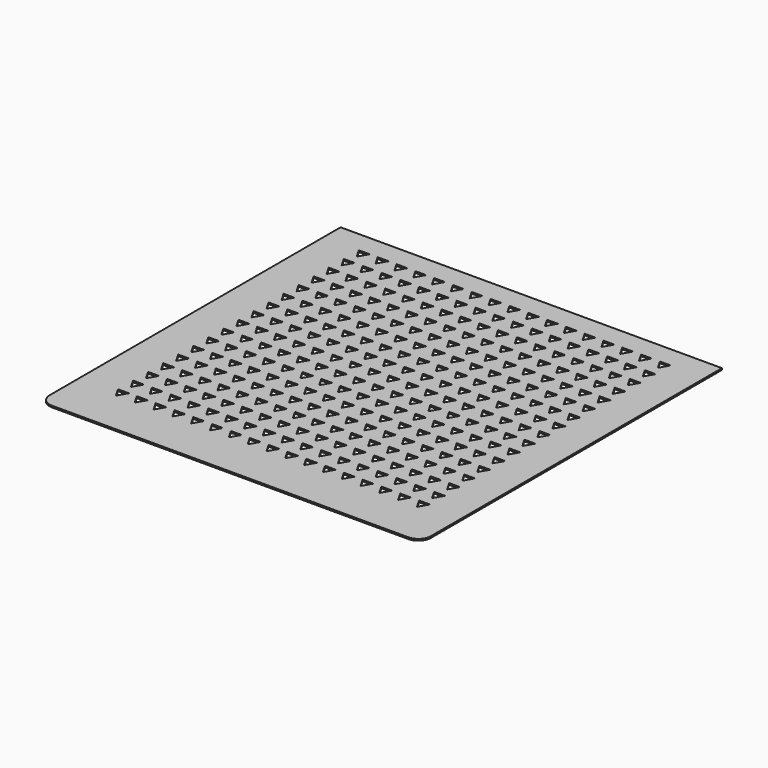
from build123d import *

# Parameters (mm, degrees)
F0_W     = 304
F0_H     = 300
F1_DEPTH = 1.3
F2_R     = 10
F4_DEPTH = 25


with BuildPart() as f1:
    # F0 (on Top) → F1 (new body)
    with BuildSketch(Plane.XY):
        Rectangle(F0_W, F0_H)
    extrude(amount=F1_DEPTH)

    # F2
    f2_edges = [f1.edges().sort_by_distance(p)[0] for p in [
        (152, -150, 0.65),
        (-152, -150, 0.65),
    ]]
    fillet(f2_edges, radius=F2_R)

    # F3 (on face) → F4 (cut)
    with BuildSketch(Plane.XY.offset(1.3)):
        Polygon((105.563281, -54.589773), (109.89196, -47.092282), (101.234603, -47.092282), align=None)
        Polygon((105.563281, -39.589773), (109.89196, -32.092282), (101.234603, -32.092282), align=None)
        Polygon((105.563281, -24.589773), (109.89196, -17.092282), (101.234603, -17.092282), align=None)
        Polygon((105.563281, -9.589773), (109.89196, -2.092282), (101.234603, -2.092282), align=None)
        Polygon((105.563281, 5.410227), (109.89196, 12.907718), (101.234603, 12.907718), align=None)
        Polygon((105.563281, 20.410227), (109.89196, 27.907718), (101.234603, 27.907718), align=None)
        Polygon((105.563281, 35.410227), (109.89196, 42.907718), (101.234603, 42.907718), align=None)
        Polygon((105.563281, 50.410227), (109.89196, 57.907718), (101.234603, 57.907718), align=None)
        Polygon((105.563281, 65.410227), (109.89196, 72.907718), (101.234603, 72.907718), align=None)
        Polygon((105.563281, 80.410227), (109.89196, 87.907718), (101.234603, 87.907718), align=None)
        Polygon((105.563281, 95.410227), (109.89196, 102.907718), (101.234603, 102.907718), align=None)
        Polygon((105.563281, 110.410227), (109.89196, 117.907718), (101.234603, 117.907718), align=None)
        Polygon((105.563281, -99.589773), (109.89196, -92.092282), (101.234603, -92.092282), align=None)
        Polygon((105.563281, -84.589773), (109.89196, -77.092282), (101.234603, -77.092282), align=None)
        Polygon((105.563281, 125.410227), (109.89196, 132.907718), (101.234603, 132.907718), align=None)
        Polygon((105.563281, -114.589773), (109.89196, -107.092282), (101.234603, -107.092282), align=None)
        Polygon((105.563281, -69.589773), (109.89196, -62.092282), (101.234603, -62.092282), align=None)
        Polygon((75.563281, -84.589773), (79.89196, -77.092282), (71.234603, -77.092282), align=None)
        Polygon((90.563281, -69.589773), (94.89196, -62.092282), (86.234603, -62.092282), align=None)
        Polygon((45.563281, -114.589773), (49.89196, -107.092282), (41.234603, -107.092282), align=None)
        Polygon((120.563281, -54.589773), (124.89196, -47.092282), (116.234603, -47.092282), align=None)
        Polygon((60.563281, -99.589773), (64.89196, -92.092282), (56.234603, -92.092282), align=None)
        Polygon((120.563281, -39.589773), (124.89196, -32.092282), (116.234603, -32.092282), align=None)
        Polygon((0.563281, 80.410227), (4.89196, 87.907718), (-3.765397, 87.907718), align=None)
        Polygon((15.563281, 95.410227), (19.89196, 102.907718), (11.234603, 102.907718), align=None)
        Polygon((30.563281, 110.410227), (34.89196, 117.907718), (26.234603, 117.907718), align=None)
        Polygon((45.563281, 125.410227), (49.89196, 132.907718), (41.234603, 132.907718), align=None)
        Polygon((-59.436719, 20.410227), (-55.10804, 27.907718), (-63.765397, 27.907718), align=None)
        Polygon((-44.436719, 35.410227), (-40.10804, 42.907718), (-48.765397, 42.907718), align=None)
        Polygon((-29.436719, 50.410227), (-25.10804, 57.907718), (-33.765397, 57.907718), align=None)
        Polygon((-14.436719, 65.410227), (-10.10804, 72.907718), (-18.765397, 72.907718), align=None)
        Polygon((-104.436719, -24.589773), (-100.10804, -17.092282), (-108.765397, -17.092282), align=None)
        Polygon((-89.436719, -9.589773), (-85.10804, -2.092282), (-93.765397, -2.092282), align=None)
        Polygon((-74.436719, 5.410227), (-70.10804, 12.907718), (-78.765397, 12.907718), align=None)
        Polygon((60.563281, -84.589773), (64.89196, -77.092282), (56.234603, -77.092282), align=None)
        Polygon((45.563281, -99.589773), (49.89196, -92.092282), (41.234603, -92.092282), align=None)
        Polygon((75.563281, -69.589773), (79.89196, -62.092282), (71.234603, -62.092282), align=None)
        Polygon((90.563281, -54.589773), (94.89196, -47.092282), (86.234603, -47.092282), align=None)
        Polygon((0.563281, 95.410227), (4.89196, 102.907718), (-3.765397, 102.907718), align=None)
        Polygon((15.563281, 110.410227), (19.89196, 117.907718), (11.234603, 117.907718), align=None)
        Polygon((30.563281, 125.410227), (34.89196, 132.907718), (26.234603, 132.907718), align=None)
        Polygon((30.563281, -114.589773), (34.89196, -107.092282), (26.234603, -107.092282), align=None)
        Polygon((-59.436719, 35.410227), (-55.10804, 42.907718), (-63.765397, 42.907718), align=None)
        Polygon((-44.436719, 50.410227), (-40.10804, 57.907718), (-48.765397, 57.907718), align=None)
        Polygon((-29.436719, 65.410227), (-25.10804, 72.907718), (-33.765397, 72.907718), align=None)
        Polygon((-14.436719, 80.410227), (-10.10804, 87.907718), (-18.765397, 87.907718), align=None)
        Polygon((-104.436719, -9.589773), (-100.10804, -2.092282), (-108.765397, -2.092282), align=None)
        Polygon((-89.436719, 5.410227), (-85.10804, 12.907718), (-93.765397, 12.907718), align=None)
        Polygon((-74.436719, 20.410227), (-70.10804, 27.907718), (-78.765397, 27.907718), align=None)
        Polygon((120.563281, -24.589773), (124.89196, -17.092282), (116.234603, -17.092282), align=None)
        Polygon((0.563281, 110.410227), (4.89196, 117.907718), (-3.765397, 117.907718), align=None)
        Polygon((15.563281, 125.410227), (19.89196, 132.907718), (11.234603, 132.907718), align=None)
        Polygon((15.563281, -114.589773), (19.89196, -107.092282), (11.234603, -107.092282), align=None)
        Polygon((30.563281, -99.589773), (34.89196, -92.092282), (26.234603, -92.092282), align=None)
        Polygon((-59.436719, 50.410227), (-55.10804, 57.907718), (-63.765397, 57.907718), align=None)
        Polygon((-44.436719, 65.410227), (-40.10804, 72.907718), (-48.765397, 72.907718), align=None)
        Polygon((-29.436719, 80.410227), (-25.10804, 87.907718), (-33.765397, 87.907718), align=None)
        Polygon((-14.436719, 95.410227), (-10.10804, 102.907718), (-18.765397, 102.907718), align=None)
        Polygon((-89.436719, 20.410227), (-85.10804, 27.907718), (-93.765397, 27.907718), align=None)
        Polygon((-104.436719, 5.410227), (-100.10804, 12.907718), (-108.765397, 12.907718), align=None)
        Polygon((-74.436719, 35.410227), (-70.10804, 42.907718), (-78.765397, 42.907718), align=None)
        Polygon((120.563281, -9.589773), (124.89196, -2.092282), (116.234603, -2.092282), align=None)
        Polygon((45.563281, -84.589773), (49.89196, -77.092282), (41.234603, -77.092282), align=None)
        Polygon((60.563281, -69.589773), (64.89196, -62.092282), (56.234603, -62.092282), align=None)
        Polygon((75.563281, -54.589773), (79.89196, -47.092282), (71.234603, -47.092282), align=None)
        Polygon((90.563281, -39.589773), (94.89196, -32.092282), (86.234603, -32.092282), align=None)
        Polygon((-59.436719, 65.410227), (-55.10804, 72.907718), (-63.765397, 72.907718), align=None)
        Polygon((-44.436719, 80.410227), (-40.10804, 87.907718), (-48.765397, 87.907718), align=None)
        Polygon((-29.436719, 95.410227), (-25.10804, 102.907718), (-33.765397, 102.907718), align=None)
        Polygon((-14.436719, 110.410227), (-10.10804, 117.907718), (-18.765397, 117.907718), align=None)
        Polygon((-104.436719, 20.410227), (-100.10804, 27.907718), (-108.765397, 27.907718), align=None)
        Polygon((-89.436719, 35.410227), (-85.10804, 42.907718), (-93.765397, 42.907718), align=None)
        Polygon((-74.436719, 50.410227), (-70.10804, 57.907718), (-78.765397, 57.907718), align=None)
        Polygon((120.563281, 5.410227), (124.89196, 12.907718), (116.234603, 12.907718), align=None)
        Polygon((45.563281, -69.589773), (49.89196, -62.092282), (41.234603, -62.092282), align=None)
        Polygon((60.563281, -54.589773), (64.89196, -47.092282), (56.234603, -47.092282), align=None)
        Polygon((75.563281, -39.589773), (79.89196, -32.092282), (71.234603, -32.092282), align=None)
        Polygon((90.563281, -24.589773), (94.89196, -17.092282), (86.234603, -17.092282), align=None)
        Polygon((0.563281, 125.410227), (4.89196, 132.907718), (-3.765397, 132.907718), align=None)
        Polygon((0.563281, -114.589773), (4.89196, -107.092282), (-3.765397, -107.092282), align=None)
        Polygon((15.563281, -99.589773), (19.89196, -92.092282), (11.234603, -92.092282), align=None)
        Polygon((30.563281, -84.589773), (34.89196, -77.092282), (26.234603, -77.092282), align=None)
        Polygon((-104.436719, 35.410227), (-100.10804, 42.907718), (-108.765397, 42.907718), align=None)
        Polygon((-89.436719, 50.410227), (-85.10804, 57.907718), (-93.765397, 57.907718), align=None)
        Polygon((-74.436719, 65.410227), (-70.10804, 72.907718), (-78.765397, 72.907718), align=None)
        Polygon((120.563281, 20.410227), (124.89196, 27.907718), (116.234603, 27.907718), align=None)
        Polygon((45.563281, -54.589773), (49.89196, -47.092282), (41.234603, -47.092282), align=None)
        Polygon((60.563281, -39.589773), (64.89196, -32.092282), (56.234603, -32.092282), align=None)
        Polygon((75.563281, -24.589773), (79.89196, -17.092282), (71.234603, -17.092282), align=None)
        Polygon((90.563281, -9.589773), (94.89196, -2.092282), (86.234603, -2.092282), align=None)
        Polygon((-14.436719, -114.589773), (-10.10804, -107.092282), (-18.765397, -107.092282), align=None)
        Polygon((0.563281, -99.589773), (4.89196, -92.092282), (-3.765397, -92.092282), align=None)
        Polygon((15.563281, -84.589773), (19.89196, -77.092282), (11.234603, -77.092282), align=None)
        Polygon((30.563281, -69.589773), (34.89196, -62.092282), (26.234603, -62.092282), align=None)
        Polygon((-59.436719, 80.410227), (-55.10804, 87.907718), (-63.765397, 87.907718), align=None)
        Polygon((-44.436719, 95.410227), (-40.10804, 102.907718), (-48.765397, 102.907718), align=None)
        Polygon((-29.436719, 110.410227), (-25.10804, 117.907718), (-33.765397, 117.907718), align=None)
        Polygon((-14.436719, 125.410227), (-10.10804, 132.907718), (-18.765397, 132.907718), align=None)
        Polygon((120.563281, 35.410227), (124.89196, 42.907718), (116.234603, 42.907718), align=None)
        Polygon((60.563281, 125.410227), (64.89196, 132.907718), (56.234603, 132.907718), align=None)
        Polygon((45.563281, -39.589773), (49.89196, -32.092282), (41.234603, -32.092282), align=None)
        Polygon((60.563281, -24.589773), (64.89196, -17.092282), (56.234603, -17.092282), align=None)
        Polygon((75.563281, -9.589773), (79.89196, -2.092282), (71.234603, -2.092282), align=None)
        Polygon((90.563281, 5.410227), (94.89196, 12.907718), (86.234603, 12.907718), align=None)
        Polygon((-14.436719, -99.589773), (-10.10804, -92.092282), (-18.765397, -92.092282), align=None)
        Polygon((0.563281, -84.589773), (4.89196, -77.092282), (-3.765397, -77.092282), align=None)
        Polygon((15.563281, -69.589773), (19.89196, -62.092282), (11.234603, -62.092282), align=None)
        Polygon((30.563281, -54.589773), (34.89196, -47.092282), (26.234603, -47.092282), align=None)
        Polygon((-59.436719, 95.410227), (-55.10804, 102.907718), (-63.765397, 102.907718), align=None)
        Polygon((-44.436719, 110.410227), (-40.10804, 117.907718), (-48.765397, 117.907718), align=None)
        Polygon((-29.436719, 125.410227), (-25.10804, 132.907718), (-33.765397, 132.907718), align=None)
        Polygon((-29.436719, -114.589773), (-25.10804, -107.092282), (-33.765397, -107.092282), align=None)
        Polygon((-104.436719, 50.410227), (-100.10804, 57.907718), (-108.765397, 57.907718), align=None)
        Polygon((-89.436719, 65.410227), (-85.10804, 72.907718), (-93.765397, 72.907718), align=None)
        Polygon((-74.436719, 80.410227), (-70.10804, 87.907718), (-78.765397, 87.907718), align=None)
        Polygon((75.563281, 5.410227), (79.89196, 12.907718), (71.234603, 12.907718), align=None)
        Polygon((90.563281, 20.410227), (94.89196, 27.907718), (86.234603, 27.907718), align=None)
        Polygon((120.563281, 50.410227), (124.89196, 57.907718), (116.234603, 57.907718), align=None)
        Polygon((15.563281, -54.589773), (19.89196, -47.092282), (11.234603, -47.092282), align=None)
        Polygon((30.563281, -39.589773), (34.89196, -32.092282), (26.234603, -32.092282), align=None)
        Polygon((45.563281, -24.589773), (49.89196, -17.092282), (41.234603, -17.092282), align=None)
        Polygon((60.563281, -9.589773), (64.89196, -2.092282), (56.234603, -2.092282), align=None)
        Polygon((-44.436719, -114.589773), (-40.10804, -107.092282), (-48.765397, -107.092282), align=None)
        Polygon((-29.436719, -99.589773), (-25.10804, -92.092282), (-33.765397, -92.092282), align=None)
        Polygon((-14.436719, -84.589773), (-10.10804, -77.092282), (-18.765397, -77.092282), align=None)
        Polygon((-89.436719, 80.410227), (-85.10804, 87.907718), (-93.765397, 87.907718), align=None)
        Polygon((-74.436719, 95.410227), (-70.10804, 102.907718), (-78.765397, 102.907718), align=None)
        Polygon((-59.436719, 110.410227), (-55.10804, 117.907718), (-63.765397, 117.907718), align=None)
        Polygon((-44.436719, 125.410227), (-40.10804, 132.907718), (-48.765397, 132.907718), align=None)
        Polygon((-104.436719, 65.410227), (-100.10804, 72.907718), (-108.765397, 72.907718), align=None)
        Polygon((75.563281, 20.410227), (79.89196, 27.907718), (71.234603, 27.907718), align=None)
        Polygon((90.563281, 35.410227), (94.89196, 42.907718), (86.234603, 42.907718), align=None)
        Polygon((120.563281, 65.410227), (124.89196, 72.907718), (116.234603, 72.907718), align=None)
        Polygon((15.563281, -39.589773), (19.89196, -32.092282), (11.234603, -32.092282), align=None)
        Polygon((30.563281, -24.589773), (34.89196, -17.092282), (26.234603, -17.092282), align=None)
        Polygon((45.563281, -9.589773), (49.89196, -2.092282), (41.234603, -2.092282), align=None)
        Polygon((60.563281, 5.410227), (64.89196, 12.907718), (56.234603, 12.907718), align=None)
        Polygon((-44.436719, -99.589773), (-40.10804, -92.092282), (-48.765397, -92.092282), align=None)
        Polygon((-29.436719, -84.589773), (-25.10804, -77.092282), (-33.765397, -77.092282), align=None)
        Polygon((-14.436719, -69.589773), (-10.10804, -62.092282), (-18.765397, -62.092282), align=None)
        Polygon((-89.436719, 95.410227), (-85.10804, 102.907718), (-93.765397, 102.907718), align=None)
        Polygon((-74.436719, 110.410227), (-70.10804, 117.907718), (-78.765397, 117.907718), align=None)
        Polygon((-59.436719, 125.410227), (-55.10804, 132.907718), (-63.765397, 132.907718), align=None)
        Polygon((-104.436719, 80.410227), (-100.10804, 87.907718), (-108.765397, 87.907718), align=None)
        Polygon((-59.436719, -114.589773), (-55.10804, -107.092282), (-63.765397, -107.092282), align=None)
        Polygon((90.563281, 50.410227), (94.89196, 57.907718), (86.234603, 57.907718), align=None)
        Polygon((75.563281, 35.410227), (79.89196, 42.907718), (71.234603, 42.907718), align=None)
        Polygon((120.563281, 80.410227), (124.89196, 87.907718), (116.234603, 87.907718), align=None)
        Polygon((15.563281, -24.589773), (19.89196, -17.092282), (11.234603, -17.092282), align=None)
        Polygon((45.563281, 5.410227), (49.89196, 12.907718), (41.234603, 12.907718), align=None)
        Polygon((30.563281, -9.589773), (34.89196, -2.092282), (26.234603, -2.092282), align=None)
        Polygon((60.563281, 20.410227), (64.89196, 27.907718), (56.234603, 27.907718), align=None)
        Polygon((-44.436719, -84.589773), (-40.10804, -77.092282), (-48.765397, -77.092282), align=None)
        Polygon((-29.436719, -69.589773), (-25.10804, -62.092282), (-33.765397, -62.092282), align=None)
        Polygon((-14.436719, -54.589773), (-10.10804, -47.092282), (-18.765397, -47.092282), align=None)
        Polygon((-89.436719, 110.410227), (-85.10804, 117.907718), (-93.765397, 117.907718), align=None)
        Polygon((-74.436719, 125.410227), (-70.10804, 132.907718), (-78.765397, 132.907718), align=None)
        Polygon((-74.436719, -114.589773), (-70.10804, -107.092282), (-78.765397, -107.092282), align=None)
        Polygon((-59.436719, -99.589773), (-55.10804, -92.092282), (-63.765397, -92.092282), align=None)
        Polygon((-104.436719, 95.410227), (-100.10804, 102.907718), (-108.765397, 102.907718), align=None)
        Polygon((75.563281, 50.410227), (79.89196, 57.907718), (71.234603, 57.907718), align=None)
        Polygon((90.563281, 65.410227), (94.89196, 72.907718), (86.234603, 72.907718), align=None)
        Polygon((120.563281, 95.410227), (124.89196, 102.907718), (116.234603, 102.907718), align=None)
        Polygon((15.563281, -9.589773), (19.89196, -2.092282), (11.234603, -2.092282), align=None)
        Polygon((30.563281, 5.410227), (34.89196, 12.907718), (26.234603, 12.907718), align=None)
        Polygon((45.563281, 20.410227), (49.89196, 27.907718), (41.234603, 27.907718), align=None)
        Polygon((60.563281, 35.410227), (64.89196, 42.907718), (56.234603, 42.907718), align=None)
        Polygon((-44.436719, -69.589773), (-40.10804, -62.092282), (-48.765397, -62.092282), align=None)
        Polygon((-29.436719, -54.589773), (-25.10804, -47.092282), (-33.765397, -47.092282), align=None)
        Polygon((-14.436719, -39.589773), (-10.10804, -32.092282), (-18.765397, -32.092282), align=None)
        Polygon((-89.436719, 125.410227), (-85.10804, 132.907718), (-93.765397, 132.907718), align=None)
        Polygon((-89.436719, -114.589773), (-85.10804, -107.092282), (-93.765397, -107.092282), align=None)
        Polygon((-74.436719, -99.589773), (-70.10804, -92.092282), (-78.765397, -92.092282), align=None)
        Polygon((-59.436719, -84.589773), (-55.10804, -77.092282), (-63.765397, -77.092282), align=None)
        Polygon((-104.436719, 110.410227), (-100.10804, 117.907718), (-108.765397, 117.907718), align=None)
        Polygon((75.563281, 65.410227), (79.89196, 72.907718), (71.234603, 72.907718), align=None)
        Polygon((90.563281, 80.410227), (94.89196, 87.907718), (86.234603, 87.907718), align=None)
        Polygon((120.563281, 110.410227), (124.89196, 117.907718), (116.234603, 117.907718), align=None)
        Polygon((45.563281, 35.410227), (49.89196, 42.907718), (41.234603, 42.907718), align=None)
        Polygon((30.563281, 20.410227), (34.89196, 27.907718), (26.234603, 27.907718), align=None)
        Polygon((15.563281, 5.410227), (19.89196, 12.907718), (11.234603, 12.907718), align=None)
        Polygon((60.563281, 50.410227), (64.89196, 57.907718), (56.234603, 57.907718), align=None)
        Polygon((-44.436719, -54.589773), (-40.10804, -47.092282), (-48.765397, -47.092282), align=None)
        Polygon((-14.436719, -24.589773), (-10.10804, -17.092282), (-18.765397, -17.092282), align=None)
        Polygon((-29.436719, -39.589773), (-25.10804, -32.092282), (-33.765397, -32.092282), align=None)
        Polygon((-104.436719, -114.589773), (-100.10804, -107.092282), (-108.765397, -107.092282), align=None)
        Polygon((-89.436719, -99.589773), (-85.10804, -92.092282), (-93.765397, -92.092282), align=None)
        Polygon((-74.436719, -84.589773), (-70.10804, -77.092282), (-78.765397, -77.092282), align=None)
        Polygon((-59.436719, -69.589773), (-55.10804, -62.092282), (-63.765397, -62.092282), align=None)
        Polygon((-104.436719, 125.410227), (-100.10804, 132.907718), (-108.765397, 132.907718), align=None)
        Polygon((120.563281, -114.589773), (124.89196, -107.092282), (116.234603, -107.092282), align=None)
        Polygon((75.563281, 80.410227), (79.89196, 87.907718), (71.234603, 87.907718), align=None)
        Polygon((90.563281, 95.410227), (94.89196, 102.907718), (86.234603, 102.907718), align=None)
        Polygon((120.563281, 125.410227), (124.89196, 132.907718), (116.234603, 132.907718), align=None)
        Polygon((15.563281, 20.410227), (19.89196, 27.907718), (11.234603, 27.907718), align=None)
        Polygon((45.563281, 50.410227), (49.89196, 57.907718), (41.234603, 57.907718), align=None)
        Polygon((30.563281, 35.410227), (34.89196, 42.907718), (26.234603, 42.907718), align=None)
        Polygon((60.563281, 65.410227), (64.89196, 72.907718), (56.234603, 72.907718), align=None)
        Polygon((-44.436719, -39.589773), (-40.10804, -32.092282), (-48.765397, -32.092282), align=None)
        Polygon((-29.436719, -24.589773), (-25.10804, -17.092282), (-33.765397, -17.092282), align=None)
        Polygon((-14.436719, -9.589773), (-10.10804, -2.092282), (-18.765397, -2.092282), align=None)
        Polygon((-89.436719, -84.589773), (-85.10804, -77.092282), (-93.765397, -77.092282), align=None)
        Polygon((-104.436719, -99.589773), (-100.10804, -92.092282), (-108.765397, -92.092282), align=None)
        Polygon((-74.436719, -69.589773), (-70.10804, -62.092282), (-78.765397, -62.092282), align=None)
        Polygon((-59.436719, -54.589773), (-55.10804, -47.092282), (-63.765397, -47.092282), align=None)
        Polygon((60.563281, -114.589773), (64.89196, -107.092282), (56.234603, -107.092282), align=None)
        Polygon((75.563281, -99.589773), (79.89196, -92.092282), (71.234603, -92.092282), align=None)
        Polygon((90.563281, -84.589773), (94.89196, -77.092282), (86.234603, -77.092282), align=None)
        Polygon((120.563281, -84.589773), (124.89196, -77.092282), (116.234603, -77.092282), align=None)
        Polygon((90.563281, 125.410227), (94.89196, 132.907718), (86.234603, 132.907718), align=None)
        Polygon((75.563281, 110.410227), (79.89196, 117.907718), (71.234603, 117.907718), align=None)
        Polygon((90.563281, -114.589773), (94.89196, -107.092282), (86.234603, -107.092282), align=None)
        Polygon((15.563281, 50.410227), (19.89196, 57.907718), (11.234603, 57.907718), align=None)
        Polygon((30.563281, 65.410227), (34.89196, 72.907718), (26.234603, 72.907718), align=None)
        Polygon((45.563281, 80.410227), (49.89196, 87.907718), (41.234603, 87.907718), align=None)
        Polygon((60.563281, 95.410227), (64.89196, 102.907718), (56.234603, 102.907718), align=None)
        Polygon((-44.436719, -9.589773), (-40.10804, -2.092282), (-48.765397, -2.092282), align=None)
        Polygon((-29.436719, 5.410227), (-25.10804, 12.907718), (-33.765397, 12.907718), align=None)
        Polygon((-14.436719, 20.410227), (-10.10804, 27.907718), (-18.765397, 27.907718), align=None)
        Polygon((-104.436719, -69.589773), (-100.10804, -62.092282), (-108.765397, -62.092282), align=None)
        Polygon((-89.436719, -54.589773), (-85.10804, -47.092282), (-93.765397, -47.092282), align=None)
        Polygon((-74.436719, -39.589773), (-70.10804, -32.092282), (-78.765397, -32.092282), align=None)
        Polygon((-59.436719, -24.589773), (-55.10804, -17.092282), (-63.765397, -17.092282), align=None)
        Polygon((120.563281, -69.589773), (124.89196, -62.092282), (116.234603, -62.092282), align=None)
        Polygon((75.563281, 125.410227), (79.89196, 132.907718), (71.234603, 132.907718), align=None)
        Polygon((75.563281, -114.589773), (79.89196, -107.092282), (71.234603, -107.092282), align=None)
        Polygon((90.563281, -99.589773), (94.89196, -92.092282), (86.234603, -92.092282), align=None)
        Polygon((15.563281, 65.410227), (19.89196, 72.907718), (11.234603, 72.907718), align=None)
        Polygon((45.563281, 95.410227), (49.89196, 102.907718), (41.234603, 102.907718), align=None)
        Polygon((30.563281, 80.410227), (34.89196, 87.907718), (26.234603, 87.907718), align=None)
        Polygon((60.563281, 110.410227), (64.89196, 117.907718), (56.234603, 117.907718), align=None)
        Polygon((-44.436719, 5.410227), (-40.10804, 12.907718), (-48.765397, 12.907718), align=None)
        Polygon((-29.436719, 20.410227), (-25.10804, 27.907718), (-33.765397, 27.907718), align=None)
        Polygon((-14.436719, 35.410227), (-10.10804, 42.907718), (-18.765397, 42.907718), align=None)
        Polygon((-104.436719, -54.589773), (-100.10804, -47.092282), (-108.765397, -47.092282), align=None)
        Polygon((-89.436719, -39.589773), (-85.10804, -32.092282), (-93.765397, -32.092282), align=None)
        Polygon((-74.436719, -24.589773), (-70.10804, -17.092282), (-78.765397, -17.092282), align=None)
        Polygon((-59.436719, -9.589773), (-55.10804, -2.092282), (-63.765397, -2.092282), align=None)
        Polygon((-29.436719, -9.589773), (-25.10804, -2.092282), (-33.765397, -2.092282), align=None)
        Polygon((-14.436719, 5.410227), (-10.10804, 12.907718), (-18.765397, 12.907718), align=None)
        Polygon((15.563281, 35.410227), (19.89196, 42.907718), (11.234603, 42.907718), align=None)
        Polygon((-89.436719, -69.589773), (-85.10804, -62.092282), (-93.765397, -62.092282), align=None)
        Polygon((-74.436719, -54.589773), (-70.10804, -47.092282), (-78.765397, -47.092282), align=None)
        Polygon((-59.436719, -39.589773), (-55.10804, -32.092282), (-63.765397, -32.092282), align=None)
        Polygon((-44.436719, -24.589773), (-40.10804, -17.092282), (-48.765397, -17.092282), align=None)
        Polygon((-104.436719, -84.589773), (-100.10804, -77.092282), (-108.765397, -77.092282), align=None)
        Polygon((90.563281, 110.410227), (94.89196, 117.907718), (86.234603, 117.907718), align=None)
        Polygon((120.563281, -99.589773), (124.89196, -92.092282), (116.234603, -92.092282), align=None)
        Polygon((30.563281, 50.410227), (34.89196, 57.907718), (26.234603, 57.907718), align=None)
        Polygon((45.563281, 65.410227), (49.89196, 72.907718), (41.234603, 72.907718), align=None)
        Polygon((60.563281, 80.410227), (64.89196, 87.907718), (56.234603, 87.907718), align=None)
        Polygon((75.563281, 95.410227), (79.89196, 102.907718), (71.234603, 102.907718), align=None)
        Polygon((15.563281, 80.410227), (19.89196, 87.907718), (11.234603, 87.907718), align=None)
        Polygon((30.563281, 95.410227), (34.89196, 102.907718), (26.234603, 102.907718), align=None)
        Polygon((45.563281, 110.410227), (49.89196, 117.907718), (41.234603, 117.907718), align=None)
        Polygon((-59.436719, 5.410227), (-55.10804, 12.907718), (-63.765397, 12.907718), align=None)
        Polygon((-44.436719, 20.410227), (-40.10804, 27.907718), (-48.765397, 27.907718), align=None)
        Polygon((-29.436719, 35.410227), (-25.10804, 42.907718), (-33.765397, 42.907718), align=None)
        Polygon((-14.436719, 50.410227), (-10.10804, 57.907718), (-18.765397, 57.907718), align=None)
        Polygon((-104.436719, -39.589773), (-100.10804, -32.092282), (-108.765397, -32.092282), align=None)
        Polygon((-89.436719, -24.589773), (-85.10804, -17.092282), (-93.765397, -17.092282), align=None)
        Polygon((-74.436719, -9.589773), (-70.10804, -2.092282), (-78.765397, -2.092282), align=None)
        Polygon((0.563281, -69.589773), (4.89196, -62.092282), (-3.765397, -62.092282), align=None)
        Polygon((0.563281, -54.589773), (4.89196, -47.092282), (-3.765397, -47.092282), align=None)
        Polygon((0.563281, -39.589773), (4.89196, -32.092282), (-3.765397, -32.092282), align=None)
        Polygon((0.563281, -24.589773), (4.89196, -17.092282), (-3.765397, -17.092282), align=None)
        Polygon((0.563281, -9.589773), (4.89196, -2.092282), (-3.765397, -2.092282), align=None)
        Polygon((0.563281, 5.410227), (4.89196, 12.907718), (-3.765397, 12.907718), align=None)
        Polygon((0.563281, 35.410227), (4.89196, 42.907718), (-3.765397, 42.907718), align=None)
        Polygon((0.563281, 50.410227), (4.89196, 57.907718), (-3.765397, 57.907718), align=None)
        Polygon((0.563281, 20.410227), (4.89196, 27.907718), (-3.765397, 27.907718), align=None)
        Polygon((0.563281, 65.410227), (4.89196, 72.907718), (-3.765397, 72.907718), align=None)
        Polygon((-119.436719, -54.589773), (-115.10804, -47.092282), (-123.765397, -47.092282), align=None)
        Polygon((-119.436719, -39.589773), (-115.10804, -32.092282), (-123.765397, -32.092282), align=None)
        Polygon((-119.436719, -24.589773), (-115.10804, -17.092282), (-123.765397, -17.092282), align=None)
        Polygon((-119.436719, -9.589773), (-115.10804, -2.092282), (-123.765397, -2.092282), align=None)
        Polygon((-119.436719, 20.410227), (-115.10804, 27.907718), (-123.765397, 27.907718), align=None)
        Polygon((-119.436719, 5.410227), (-115.10804, 12.907718), (-123.765397, 12.907718), align=None)
        Polygon((-119.436719, 35.410227), (-115.10804, 42.907718), (-123.765397, 42.907718), align=None)
        Polygon((-119.436719, 50.410227), (-115.10804, 57.907718), (-123.765397, 57.907718), align=None)
        Polygon((-119.436719, 65.410227), (-115.10804, 72.907718), (-123.765397, 72.907718), align=None)
        Polygon((-119.436719, 80.410227), (-115.10804, 87.907718), (-123.765397, 87.907718), align=None)
        Polygon((-119.436719, 95.410227), (-115.10804, 102.907718), (-123.765397, 102.907718), align=None)
        Polygon((-119.436719, -84.589773), (-115.10804, -77.092282), (-123.765397, -77.092282), align=None)
        Polygon((-119.436719, -69.589773), (-115.10804, -62.092282), (-123.765397, -62.092282), align=None)
        Polygon((-119.436719, -99.589773), (-115.10804, -92.092282), (-123.765397, -92.092282), align=None)
        Polygon((-119.436719, -114.589773), (-115.10804, -107.092282), (-123.765397, -107.092282), align=None)
        Polygon((-119.436719, 110.410227), (-115.10804, 117.907718), (-123.765397, 117.907718), align=None)
        Polygon((-115.10804, 132.907718), (-123.765397, 132.907718), (-119.436719, 125.410227), align=None)
    extrude(amount=-F4_DEPTH, mode=Mode.SUBTRACT)


solid = f1.part
